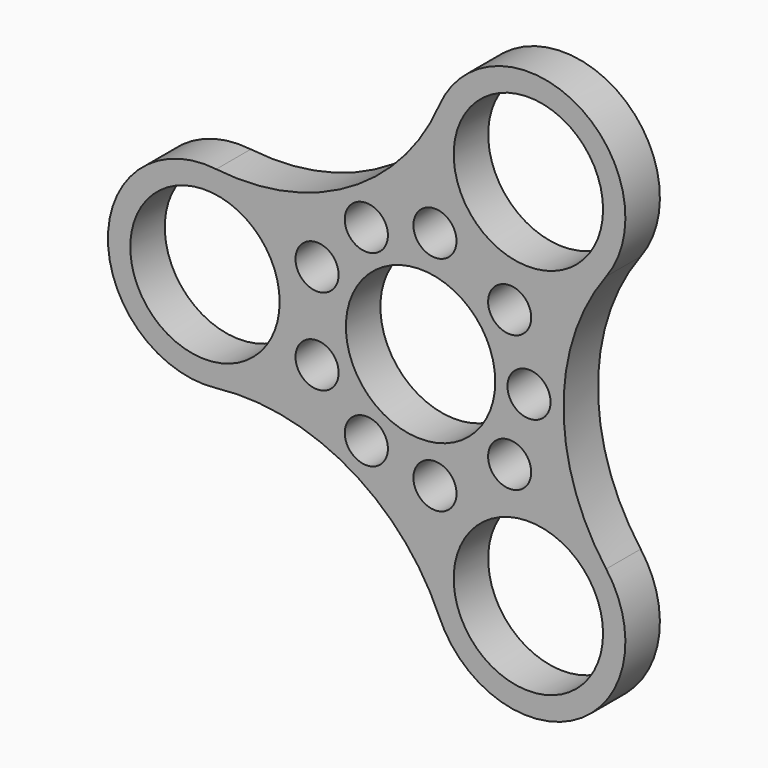
from build123d import *

# Parameters (mm, degrees)
F2_R     = 10.9982
F2_R_2   = 14.2875
F3_DEPTH = 6.35
F4_R     = 3.175
F5_R     = 3.175
F6_DEPTH = 6.351


with BuildPart() as f3:
    # F2 (on Front) → F3 (new body)
    with BuildSketch(Plane.XZ):
        with BuildLine():
            ThreePointArc((30.1625, 27.4963065702), (18.7633086309, 41.4888163344), (2.7552797722, 33.1536555423))
            ThreePointArc((2.7552797722, 33.1536555423), (8.73125, 15.1229686136), (27.3342680419, 18.9629700484))
            ThreePointArc((27.3342680419, 18.9629700484), (29.437023234, 23.0014003364), (30.1625, 27.4963065702))
        make_face()
        with Locations((15.875, 27.4963065702)):
            Circle(F2_R, mode=Mode.SUBTRACT)
        with BuildLine():
            ThreePointArc((-30.0895478141, 14.1906854939), (-21.0762853969, 9.4976035305), (-17.4625, 0))
            ThreePointArc((-17.4625, 0), (-21.0762853969, -9.4976035305), (-30.0895478141, -14.1906854939))
            ThreePointArc((-30.0895478141, -14.1906854939), (-10.5246540675, -18.229235577), (2.7552797722, -33.1536555423))
            ThreePointArc((2.7552797722, -33.1536555423), (8.73125, -15.1229686136), (27.3342680419, -18.9629700484))
            ThreePointArc((27.3342680419, -18.9629700484), (21.049308135, 0), (27.3342680419, 18.9629700484))
            ThreePointArc((27.3342680419, 18.9629700484), (8.73125, 15.1229686136), (2.7552797722, 33.1536555423))
            ThreePointArc((2.7552797722, 33.1536555423), (-10.5246540675, 18.229235577), (-30.0895478141, 14.1906854939))
        make_face()
        Circle(F2_R_2, mode=Mode.SUBTRACT)
        Circle(F2_R_2)
        Circle(F2_R, mode=Mode.SUBTRACT)
        with BuildLine():
            ThreePointArc((-30.0895478141, -14.1906854939), (-21.0762853969, -9.4976035305), (-17.4625, 0))
            ThreePointArc((-17.4625, 0), (-21.0762853969, 9.4976035305), (-30.0895478141, 14.1906854939))
            ThreePointArc((-30.0895478141, 14.1906854939), (-46.0375, 0), (-30.0895478141, -14.1906854939))
        make_face()
        with Locations((-31.75, 0)):
            Circle(F2_R, mode=Mode.SUBTRACT)
        with BuildLine():
            ThreePointArc((27.3342680419, -18.9629700484), (8.73125, -15.1229686136), (2.7552797722, -33.1536555423))
            ThreePointArc((2.7552797722, -33.1536555423), (18.7633086309, -41.4888163344), (30.1625, -27.4963065702))
            ThreePointArc((30.1625, -27.4963065702), (29.437023234, -23.0014003364), (27.3342680419, -18.9629700484))
        make_face()
        with Locations((15.875, -27.4963065702)):
            Circle(F2_R, mode=Mode.SUBTRACT)
    extrude(amount=F3_DEPTH)

    # F4 (on face) + F5 (on face) → F6 (cut, through all)
    with BuildSketch(Plane.XZ.offset(6.35)):
        with Locations((-15.24, 6.35)):
            Circle(F4_R)
        with Locations((2.120738686, 16.3732271537)):
            Circle(F4_R)
        with Locations((13.119261314, 10.0232271537)):
            Circle(F4_R)
        with Locations((13.119261314, -10.0232271537)):
            Circle(F4_R)
        with Locations((2.120738686, -16.3732271537)):
            Circle(F4_R)
        with Locations((-15.24, -6.35)):
            Circle(F4_R)
    with BuildSketch(Plane.XZ.offset(6.35)):
        with Locations((-7.9846540675, 13.8298265258)):
            Circle(F5_R)
        with Locations((15.969308135, 0)):
            Circle(F5_R)
        with Locations((-7.9846540675, -13.8298265258)):
            Circle(F5_R)
    extrude(amount=-F6_DEPTH, mode=Mode.SUBTRACT)


solid = f3.part
